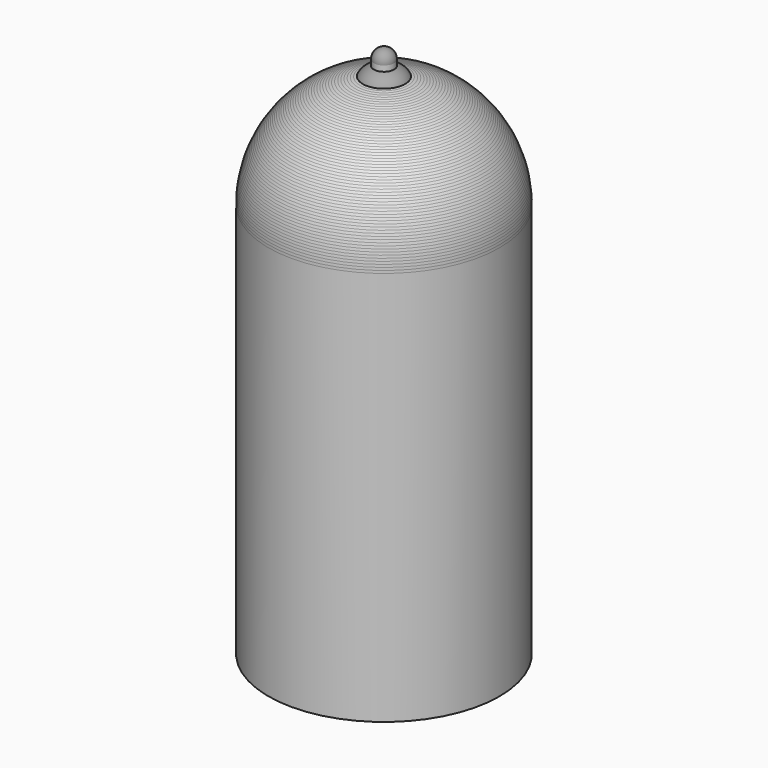
from build123d import *


with BuildPart() as f1:
    # F0 (on Front) → F1 (revolve)
    with BuildSketch(Plane.XZ):
        Polygon((11.400165, 52.66552), (11.348489, 52.664831), (11.297501, 52.662936), (11.246514, 52.659663), (11.196215, 52.655184), (11.145917, 52.6495), (11.096308, 52.642437), (11.047043, 52.634341), (10.998122, 52.624867), (10.949547, 52.61436), (10.901315, 52.602647), (10.853773, 52.589727), (10.80692, 52.575603), (10.760066, 52.560444), (10.714247, 52.544252), (10.668427, 52.526854), (10.623641, 52.508423), (10.579199, 52.488958), (10.535446, 52.46846), (10.492038, 52.446756), (10.449319, 52.424191), (10.407289, 52.400592), (10.365603, 52.375959), (10.324951, 52.350466), (10.284643, 52.323938), (10.245025, 52.29655), (10.206095, 52.2683), (10.167854, 52.239017), (10.130647, 52.209044), (10.094129, 52.178039), (10.0583, 52.146171), (10.02316, 52.113443), (9.989054, 52.080026), (9.955292, 52.045747), (9.922908, 52.010607), (9.891213, 51.974778), (9.860207, 51.93826), (9.829891, 51.900708), (9.800607, 51.862812), (9.772357, 51.824055), (9.744797, 51.784436), (9.718269, 51.744129), (9.692776, 51.703304), (9.668316, 51.661963), (9.644889, 51.619761), (9.622151, 51.576869), (9.600447, 51.533633), (9.580121, 51.489708), (9.560484, 51.445267), (9.541881, 51.400308), (9.524655, 51.354661), (9.508463, 51.308496), (9.493305, 51.261988), (9.47918, 51.21479), (9.466088, 51.167248), (9.454375, 51.119188), (9.44404, 51.070785), (9.434738, 51.021865), (9.42647, 50.9726), (9.41958, 50.922818), (9.413723, 50.872692), (9.409244, 50.822393), (9.406144, 50.771406), (9.404077, 50.720246), (9.403388, 50.668914), (9.403388, 50.650483), (9.403388, 50.632224), (9.403388, 50.613793), (9.403388, 50.595362), (9.403388, 50.577103), (9.403388, 50.558671), (9.403388, 50.54024), (9.403388, 50.521981), (9.403388, 50.50355), (9.403388, 50.485119), (9.403388, 50.46686), (9.403388, 50.448428), (9.403388, 50.429997), (9.403388, 50.411738), (9.403388, 50.393307), (9.403388, 50.374876), (9.403388, 50.356444), (9.403388, 50.338013), (9.403388, 50.319754), (9.403388, 50.301323), (9.403388, 50.282892), (9.403388, 50.264633), (9.403388, 50.246201), (9.403388, 50.22777), (9.403388, 50.209339), (9.403388, 50.190907), (9.403388, 50.172648), (9.403388, 50.154217), (9.403388, 50.135786), (9.403388, 50.117527), (9.403388, 50.099096), (9.403388, 50.080664), (9.403388, 50.062233), (9.403388, 50.043802), (9.403388, 50.025543), (9.403388, 50.007112), (9.403388, 49.98868), (9.403388, 49.970421), (9.403388, 49.95199), (9.403388, 49.933559), (9.403388, 49.915128), (9.403388, 49.896696), (9.403388, 49.878437), (9.403388, 49.860006), (9.403388, 49.841575), (9.403388, 49.823316), (9.403388, 49.804885), (9.403388, 49.786453), (9.403388, 49.768022), (9.403388, 49.749591), (9.403388, 49.731332), (9.403388, 49.7129), (9.403388, 49.694469), (9.403388, 49.67621), (9.403388, 49.657779), (9.403388, 49.639348), (9.403388, 49.620916), (9.403388, 49.602485), (9.403388, 49.584226), (9.403388, 49.565795), (9.403388, 49.547364), (9.403388, 49.529105), (9.403388, 49.510673), (9.403388, 49.492242), (9.35619, 49.4745), (9.309337, 49.456413), (9.262483, 49.43781), (9.216319, 49.418862), (9.170499, 49.399569), (9.125024, 49.37976), (9.079893, 49.359606), (9.035107, 49.339108), (8.990665, 49.318265), (8.946568, 49.297077), (8.90316, 49.275546), (8.859752, 49.253497), (8.816688, 49.231276), (8.774313, 49.208538), (8.731939, 49.185629), (8.690253, 49.162202), (8.648912, 49.138431), (8.607915, 49.114487), (8.567263, 49.090027), (8.5273, 49.065395), (8.487681, 49.040418), (8.448063, 49.014924), (8.409478, 48.989258), (8.370893, 48.963075), (8.332652, 48.93672), (8.2951, 48.910021), (8.257893, 48.882977), (8.221031, 48.855588), (8.184513, 48.828028), (8.148684, 48.79995), (8.113199, 48.7717), (8.078404, 48.743106), (8.043953, 48.714167), (8.009847, 48.685056), (7.976085, 48.655601), (7.943012, 48.625801), (7.910628, 48.595828), (7.878244, 48.565511), (7.846549, 48.53485), (7.815199, 48.504016), (7.784537, 48.472666), (7.75422, 48.441316), (7.724593, 48.409621), (7.694965, 48.377754), (7.666026, 48.345542), (7.637776, 48.312986), (7.610215, 48.280085), (7.582655, 48.247185), (7.555783, 48.213939), (7.5296, 48.18035), (7.504107, 48.146588), (7.478957, 48.112654), (7.454153, 48.078203), (7.430037, 48.043752), (7.406266, 48.008956), (7.383184, 47.974161), (7.360791, 47.939021), (7.338742, 47.903709), (7.317382, 47.868052), (7.296367, 47.832223), (7.276041, 47.796222), (7.25606, 47.759876), (7.236767, 47.723358), (7.218164, 47.686668), (6.714491, 47.587449), (6.214952, 47.47755), (5.720236, 47.356972), (5.229999, 47.226058), (4.744585, 47.084982), (4.263994, 46.93357), (3.788227, 46.771995), (3.317971, 46.600773), (2.852883, 46.419561), (2.393307, 46.228703), (1.938899, 46.028371), (1.490348, 45.818737), (1.047309, 45.599801), (0.610126, 45.371736), (0.1788, 45.134713), (-0.246325, 44.888906), (-0.665248, 44.634313), (-1.078315, 44.371108), (-1.484837, 44.099462), (-1.884812, 43.819548), (-2.278242, 43.531538), (-2.665126, 43.23526), (-3.044776, 42.931058), (-3.41788, 42.619277), (-3.783749, 42.299744), (-4.142728, 41.972632), (-4.494472, 41.638286), (-4.838982, 41.296532), (-5.175567, 40.947544), (-5.504919, 40.591838), (-5.826346, 40.229069), (-6.140194, 39.859583), (-6.446119, 39.483551), (-6.743775, 39.100973), (-7.033507, 38.712194), (-7.314972, 38.317041), (-7.588168, 37.91586), (-7.852751, 37.508822), (-8.108722, 37.0961), (-8.356424, 36.67752), (-8.595169, 36.253601), (-8.824613, 35.823998), (-9.045099, 35.389399), (-9.256628, 34.949461), (-9.458855, 34.504526), (-9.65178, 34.054769), (-9.835404, 33.600361), (-10.009381, 33.14113), (-10.173712, 32.677592), (-10.328052, 32.209576), (-10.472746, 31.737598), (-10.607105, 31.261314), (-10.731473, 30.781067), (-10.845506, 30.297031), (-10.949547, 29.809378), (-11.04291, 29.318107), (-11.125936, 28.823392), (-11.197939, 28.325575), (-11.259262, 27.824659), (-11.30956, 27.320469), (-11.349178, 26.813523), (-11.377428, 26.303821), (-11.394654, 25.791363), (-11.400166, 25.276494), (-11.400166, 24.05848), (-11.400166, 22.840639), (-11.400166, 21.622798), (-11.400166, 20.404956), (-11.400166, 19.187115), (-11.400166, 17.969274), (-11.400166, 16.751433), (-11.400166, 15.533591), (-11.400166, 14.31575), (-11.400166, 13.097909), (-11.400166, 11.880068), (-11.400166, 10.662226), (-11.400166, 9.444385), (-11.400166, 8.226544), (-11.400166, 7.008703), (-11.400166, 5.790861), (-11.400166, 4.57302), (-11.400166, 3.355179), (-11.400166, 2.137338), (-11.400166, 0.919496), (-11.400166, -0.298345), (-11.400166, -1.516186), (-11.400166, -2.734027), (-11.400166, -3.951869), (-11.400166, -5.16971), (-11.400166, -6.387551), (-11.400166, -7.605392), (-11.400166, -8.823234), (-11.400166, -10.041075), (-11.400166, -11.258916), (-11.400166, -12.476757), (-11.400166, -13.694599), (-11.400166, -14.91244), (-11.400166, -16.130281), (-11.400166, -17.348122), (-11.400166, -18.565964), (-11.400166, -19.783805), (-11.400166, -21.001646), (-11.400166, -22.219487), (-11.400166, -23.437329), (-11.400166, -24.65517), (-11.400166, -25.873011), (-11.400166, -27.090852), (-11.400166, -28.308694), (-11.400166, -29.526535), (-11.400166, -30.744376), (-11.400166, -31.962218), (-11.400166, -33.180059), (-11.400166, -34.3979), (-11.400166, -35.615741), (-11.400166, -36.833583), (-11.400166, -38.051424), (-11.400166, -39.269265), (-11.400166, -40.487106), (-11.400166, -41.704948), (-11.400166, -42.922789), (-11.400166, -44.14063), (-11.400166, -45.358471), (-11.400166, -46.576313), (-11.400166, -47.794154), (-11.400166, -49.011995), (-11.400166, -50.229836), (-11.400166, -51.447678), (-11.400166, -52.665519), (-11.155564, -52.665519), (-10.910962, -52.665519), (-10.666361, -52.665519), (-10.421759, -52.665519), (-10.177157, -52.665519), (-9.932555, -52.665519), (-9.687953, -52.665519), (-9.443696, -52.665519), (-9.199439, -52.665519), (-8.954837, -52.665519), (-8.710235, -52.665519), (-8.465634, -52.665519), (-8.221032, -52.665519), (-7.97643, -52.665519), (-7.731828, -52.665519), (-7.487226, -52.665519), (-7.242625, -52.665519), (-6.998023, -52.665519), (-6.753421, -52.665519), (-6.508819, -52.665519), (-6.264218, -52.665519), (-6.019616, -52.665519), (-5.775014, -52.665519), (-5.530757, -52.665519), (-5.286499, -52.665519), (-5.041898, -52.665519), (-4.797296, -52.665519), (-4.552694, -52.665519), (-4.308092, -52.665519), (-4.063491, -52.665519), (-3.818889, -52.665519), (-3.574287, -52.665519), (-3.329685, -52.665519), (-3.085083, -52.665519), (-2.840482, -52.665519), (-2.59588, -52.665519), (-2.351278, -52.665519), (-2.106676, -52.665519), (-1.862075, -52.665519), (-1.617817, -52.665519), (-1.37356, -52.665519), (-1.128958, -52.665519), (-0.884356, -52.665519), (-0.639755, -52.665519), (-0.395153, -52.665519), (-0.150551, -52.665519), (0.094051, -52.665519), (0.338652, -52.665519), (0.583254, -52.665519), (0.827856, -52.665519), (1.072458, -52.665519), (1.31706, -52.665519), (1.561661, -52.665519), (1.806263, -52.665519), (2.050865, -52.665519), (2.295467, -52.665519), (2.540068, -52.665519), (2.78467, -52.665519), (3.029272, -52.665519), (3.273874, -52.665519), (3.518476, -52.665519), (3.763077, -52.665519), (4.007679, -52.665519), (4.251936, -52.665519), (4.363902, -52.665519), (4.475523, -52.665519), (4.587144, -52.665519), (4.698765, -52.665519), (4.810386, -52.665519), (4.922007, -52.665519), (5.033629, -52.665519), (5.14525, -52.665519), (5.256871, -52.665519), (5.368492, -52.665519), (5.480113, -52.665519), (5.592079, -52.665519), (5.704044, -52.665519), (5.815665, -52.665519), (5.927286, -52.665519), (6.038907, -52.665519), (6.150529, -52.665519), (6.26215, -52.665519), (6.373771, -52.665519), (6.485736, -52.665519), (6.597702, -52.665519), (6.709323, -52.665519), (6.820944, -52.665519), (6.932565, -52.665519), (7.044186, -52.665519), (7.155807, -52.665519), (7.267428, -52.665519), (7.379394, -52.665519), (7.49136, -52.665519), (7.602981, -52.665519), (7.714602, -52.665519), (7.826223, -52.665519), (7.937844, -52.665519), (8.049465, -52.665519), (8.161086, -52.665519), (8.273052, -52.665519), (8.385017, -52.665519), (8.496639, -52.665519), (8.60826, -52.665519), (8.719881, -52.665519), (8.831502, -52.665519), (8.943123, -52.665519), (9.054744, -52.665519), (9.166365, -52.665519), (9.277986, -52.665519), (9.389607, -52.665519), (9.501228, -52.665519), (9.613194, -52.665519), (9.72516, -52.665519), (9.836781, -52.665519), (9.948402, -52.665519), (10.060023, -52.665519), (10.171644, -52.665519), (10.283265, -52.665519), (10.394886, -52.665519), (10.506507, -52.665519), (10.618128, -52.665519), (10.729749, -52.665519), (10.841371, -52.665519), (10.953336, -52.665519), (11.065302, -52.665519), (11.176923, -52.665519), (11.288544, -52.665519), (11.400165, -52.665519), (11.400165, -52.335134), (11.400165, -52.005094), (11.400165, -51.674709), (11.400165, -51.344325), (11.400165, -51.014285), (11.400165, -50.6839), (11.400165, -50.353515), (11.400165, -50.023475), (11.400165, -49.693435), (11.400165, -49.36305), (11.400165, -49.032666), (11.400165, -48.702625), (11.400165, -48.372585), (11.400165, -48.042201), (11.400165, -47.711816), (11.400165, -47.381776), (11.400165, -47.051736), (11.400165, -46.721351), (11.400165, -46.390966), (11.400165, -46.060926), (11.400165, -45.730542), (11.400165, -45.400157), (11.400165, -45.070117), (11.400165, -44.739732), (11.400165, -44.409347), (11.400165, -44.079307), (11.400165, -43.748923), (11.400165, -43.418538), (11.400165, -43.088498), (11.400165, -42.758113), (11.400165, -42.427729), (11.400165, -42.097688), (11.400165, -41.767648), (11.400165, -41.437264), (11.400165, -41.106879), (11.400165, -40.776839), (11.400165, -40.446799), (11.400165, -40.116414), (11.400165, -39.786029), (11.400165, -39.455989), (11.400165, -39.125949), (11.400165, -38.795564), (11.400165, -38.46518), (11.400165, -38.13514), (11.400165, -37.804755), (11.400165, -37.47437), (11.400165, -37.14433), (11.400165, -36.813945), (11.400165, -36.483561), (11.400165, -36.153521), (11.400165, -35.823136), (11.400165, -35.492751), (11.400165, -35.162711), (11.400165, -34.832327), (11.400165, -34.501942), (11.400165, -34.171902), (11.400165, -33.841862), (11.400165, -33.511477), (11.400165, -33.181092), (11.400165, -32.851052), (11.400165, -32.521012), (11.400165, -32.190627), (11.400165, -31.860243), (11.400165, -31.530203), (11.378116, -31.530547), (11.356068, -31.531236), (11.334019, -31.532614), (11.312315, -31.534681), (11.290611, -31.537437), (11.268907, -31.540193), (11.247892, -31.543638), (11.226532, -31.547773), (11.205862, -31.552596), (11.184847, -31.557419), (11.16452, -31.562931), (11.144194, -31.569132), (11.123868, -31.575678), (11.103887, -31.582568), (11.08425, -31.590147), (11.064957, -31.598071), (11.046009, -31.606339), (11.026717, -31.615296), (11.008113, -31.624598), (10.98951, -31.634244), (10.971595, -31.644235), (10.953681, -31.654915), (10.935766, -31.665939), (10.918541, -31.677308), (10.90166, -31.689366), (10.884779, -31.701424), (10.868242, -31.714171), (10.852395, -31.726917), (10.836547, -31.740353), (10.821044, -31.754134), (10.805886, -31.768259), (10.791072, -31.782728), (10.776603, -31.797542), (10.762822, -31.8127), (10.749042, -31.828203), (10.735606, -31.844051), (10.722859, -31.860243), (10.710112, -31.876435), (10.698055, -31.893316), (10.685997, -31.910541), (10.674628, -31.927767), (10.663604, -31.945337), (10.652924, -31.963251), (10.642933, -31.981166), (10.632942, -31.999425), (10.623641, -32.018373), (10.615028, -32.037321), (10.606415, -32.056613), (10.598491, -32.07625), (10.590912, -32.095887), (10.584022, -32.115869), (10.577132, -32.13585), (10.571275, -32.156176), (10.565763, -32.176502), (10.560595, -32.197518), (10.556117, -32.218533), (10.551983, -32.239548), (10.548537, -32.260907), (10.545437, -32.282267), (10.543025, -32.303626), (10.540958, -32.325331), (10.53958, -32.347379), (10.538891, -32.369428), (10.538547, -32.391821), (10.538547, -32.395611), (10.538547, -32.399745), (10.538547, -32.403879), (10.538547, -32.408013), (10.538547, -32.412147), (10.538547, -32.415937), (10.538547, -32.419726), (10.538547, -32.42386), (10.538547, -32.427994), (10.538547, -32.431784), (10.538547, -32.435574), (10.538547, -32.439708), (10.538547, -32.443842), (10.538547, -32.447631), (10.538547, -32.451421), (10.538547, -32.455555), (10.538547, -32.459689), (10.538547, -32.463479), (10.538547, -32.467269), (10.538547, -32.471403), (10.538547, -32.475537), (10.538547, -32.479671), (10.538547, -32.483805), (10.538547, -32.487595), (10.538547, -32.491384), (10.538547, -32.495518), (10.538547, -32.499652), (10.538547, -32.503787), (10.538547, -32.507921), (10.538547, -32.51171), (10.538547, -32.5155), (10.538547, -32.519634), (10.538547, -32.523768), (10.538547, -32.527558), (10.538547, -32.531347), (10.538547, -32.535481), (10.538547, -32.539616), (10.538547, -32.54375), (10.538547, -32.547884), (10.538547, -32.551673), (10.538547, -32.555463), (10.538547, -32.559597), (10.538547, -32.563731), (10.538547, -32.567865), (10.538547, -32.571999), (10.538547, -32.575789), (10.538547, -32.579579), (10.538547, -32.583713), (10.538547, -32.587847), (10.538547, -32.591636), (10.538547, -32.595426), (10.538547, -32.59956), (10.538547, -32.603694), (10.538547, -32.607484), (10.538547, -32.611273), (10.538547, -32.615408), (10.538547, -32.619542), (10.538547, -32.623331), (10.538547, -32.627121), (10.538547, -32.631255), (10.538547, -32.635389), (10.538547, -32.639523), (10.538547, -32.643657), (10.538547, -32.647447), (10.525455, -32.653304), (10.512364, -32.659849), (10.499273, -32.666395), (10.486181, -32.672596), (10.473434, -32.679142), (10.460687, -32.685688), (10.447941, -32.692233), (10.435194, -32.699123), (10.422447, -32.706014), (10.410045, -32.712904), (10.397642, -32.719794), (10.38524, -32.727029), (10.373182, -32.734263), (10.361124, -32.741498), (10.349066, -32.748733), (10.337009, -32.756312), (10.325295, -32.763891), (10.313582, -32.77147), (10.301869, -32.77905), (10.2905, -32.786629), (10.278786, -32.794553), (10.267762, -32.802476), (10.256393, -32.8104), (10.245369, -32.818668), (10.234345, -32.826936), (10.22332, -32.83486), (10.212296, -32.843473), (10.201616, -32.851741), (10.190937, -32.860009), (10.180257, -32.868622), (10.169577, -32.877235), (10.159586, -32.885848), (10.149595, -32.89446), (10.13926, -32.903418), (10.129269, -32.912375), (10.119279, -32.921332), (10.109632, -32.930289), (10.099641, -32.939247), (10.089995, -32.948548), (10.080693, -32.95785), (10.071047, -32.967152), (10.061745, -32.976454), (10.052444, -32.9861), (10.043486, -32.995746), (10.034529, -33.005048), (10.025572, -33.014694), (10.016959, -33.024685), (10.008346, -33.034331), (10.000078, -33.043977), (9.991465, -33.053968), (9.983197, -33.063959), (9.974929, -33.074294), (9.967005, -33.084285), (9.959082, -33.094276), (9.951158, -33.104611), (9.943579, -33.114946), (9.935999, -33.125282), (9.92842, -33.135617), (9.921186, -33.145952), (9.913951, -33.156632), (9.907061, -33.167312), (9.90017, -33.177992), (9.89328, -33.188671), (9.88639, -33.199351), (9.71758, -33.234836), (9.549804, -33.273765), (9.384095, -33.31614), (9.21942, -33.36196), (9.056811, -33.411225), (8.895925, -33.463935), (8.736417, -33.52009), (8.578632, -33.579345), (8.422914, -33.642046), (8.268573, -33.707847), (8.1163, -33.776749), (7.966094, -33.848752), (7.81761, -33.923855), (7.671194, -34.001714), (7.526844, -34.083018), (7.384562, -34.167079), (7.244002, -34.253895), (7.105854, -34.343812), (6.969772, -34.436485), (6.835758, -34.531914), (6.703811, -34.630099), (6.574275, -34.730696), (6.447151, -34.834049), (6.322439, -34.940158), (6.199793, -35.048679), (6.07956, -35.159611), (5.961737, -35.272954), (5.846671, -35.389054), (5.734016, -35.507221), (5.623773, -35.627799), (5.515942, -35.750789), (5.411211, -35.875846), (5.308892, -36.00297), (5.208984, -36.132506), (5.112177, -36.264108), (5.017781, -36.397778), (4.926142, -36.533515), (4.837947, -36.670974), (4.752164, -36.8105), (4.669482, -36.952094), (4.589556, -37.09541), (4.51273, -37.240448), (4.439005, -37.387209), (4.368381, -37.535693), (4.300512, -37.685899), (4.236089, -37.837828), (4.174766, -37.991135), (4.116544, -38.146164), (4.061423, -38.302571), (4.009746, -38.460357), (3.961515, -38.61952), (3.916729, -38.780406), (3.875043, -38.942325), (3.836802, -39.105278), (3.802351, -39.26961), (3.771001, -39.435319), (3.74344, -39.602061), (3.719325, -39.769837), (3.698999, -39.938647), (3.682118, -40.10849), (3.669026, -40.279367), (3.65938, -40.451277), (3.653523, -40.623877), (3.651801, -40.797509), (3.651801, -40.973554), (3.651801, -41.149598), (3.651801, -41.325643), (3.651801, -41.501687), (3.651801, -41.677731), (3.651801, -41.853776), (3.651801, -42.02982), (3.651801, -42.205864), (3.651801, -42.381909), (3.651801, -42.557953), (3.651801, -42.733998), (3.651801, -42.910042), (3.651801, -43.086086), (3.651801, -43.262131), (3.651801, -43.43852), (3.651801, -43.614564), (3.651801, -43.790608), (3.651801, -43.966997), (3.651801, -44.143042), (3.651801, -44.319086), (3.651801, -44.49513), (3.651801, -44.671175), (3.651801, -44.847219), (3.651801, -45.023264), (3.651801, -45.199308), (3.651801, -45.375352), (3.651801, -45.551397), (3.651801, -45.727441), (3.651801, -45.903485), (3.651801, -46.07953), (3.651801, -46.255574), (3.651801, -46.431619), (3.651801, -46.607663), (3.651801, -46.783707), (3.651801, -46.959752), (3.651801, -47.135796), (3.651801, -47.31184), (3.651801, -47.487885), (3.651801, -47.663929), (3.651801, -47.839974), (3.651801, -48.016018), (3.651801, -48.192062), (3.651801, -48.368107), (3.651801, -48.544151), (3.651801, -48.720195), (3.651801, -48.89624), (3.651801, -49.072284), (3.651801, -49.248329), (3.651801, -49.424373), (3.651801, -49.600417), (3.651801, -49.776462), (3.651801, -49.952506), (3.651801, -50.128551), (3.651801, -50.304595), (3.651801, -50.480639), (3.651801, -50.656684), (3.651801, -50.832728), (3.651801, -51.008772), (3.651801, -51.184817), (3.651801, -51.360861), (3.651801, -51.536906), (3.651801, -51.71295), (3.651801, -51.889339), (3.651801, -52.065383), (3.426147, -52.065383), (3.200149, -52.065383), (2.974495, -52.065383), (2.748841, -52.065383), (2.522843, -52.065383), (2.297189, -52.065383), (2.071535, -52.065383), (1.845537, -52.065383), (1.619539, -52.065383), (1.393885, -52.065383), (1.168231, -52.065383), (0.942233, -52.065383), (0.716235, -52.065383), (0.490581, -52.065383), (0.264927, -52.065383), (0.038929, -52.065383), (-0.187069, -52.065383), (-0.412723, -52.065383), (-0.638377, -52.065383), (-0.864375, -52.065383), (-1.090373, -52.065383), (-1.316027, -52.065383), (-1.541681, -52.065383), (-1.767679, -52.065383), (-1.993677, -52.065383), (-2.219331, -52.065383), (-2.444985, -52.065383), (-2.670983, -52.065383), (-2.896981, -52.065383), (-3.122635, -52.065383), (-3.348289, -52.065383), (-3.574287, -52.065383), (-3.800285, -52.065383), (-4.025939, -52.065383), (-4.251593, -52.065383), (-4.477591, -52.065383), (-4.703589, -52.065383), (-4.929243, -52.065383), (-5.154897, -52.065383), (-5.380895, -52.065383), (-5.606893, -52.065383), (-5.832547, -52.065383), (-6.058201, -52.065383), (-6.284199, -52.065383), (-6.509853, -52.065383), (-6.735507, -52.065383), (-6.961505, -52.065383), (-7.187159, -52.065383), (-7.412812, -52.065383), (-7.638811, -52.065383), (-7.864464, -52.065383), (-8.090118, -52.065383), (-8.316116, -52.065383), (-8.54177, -52.065383), (-8.767424, -52.065383), (-8.993422, -52.065383), (-9.21942, -52.065383), (-9.445074, -52.065383), (-9.670728, -52.065383), (-9.896726, -52.065383), (-10.122725, -52.065383), (-10.348378, -52.065383), (-10.574032, -52.065383), (-10.80003, -52.065383), (-10.80003, -50.857188), (-10.80003, -49.648649), (-10.80003, -48.440109), (-10.80003, -47.23157), (-10.80003, -46.02303), (-10.80003, -44.814491), (-10.80003, -43.605951), (-10.80003, -42.397412), (-10.80003, -41.188872), (-10.80003, -39.980333), (-10.80003, -38.771793), (-10.80003, -37.563598), (-10.80003, -36.355403), (-10.80003, -35.146864), (-10.80003, -33.938324), (-10.80003, -32.729785), (-10.80003, -31.521245), (-10.80003, -30.312706), (-10.80003, -29.104166), (-10.80003, -27.895971), (-10.80003, -26.687432), (-10.80003, -25.479237), (-10.80003, -24.270697), (-10.80003, -23.062158), (-10.80003, -21.853618), (-10.80003, -20.645079), (-10.80003, -19.436884), (-10.80003, -18.228344), (-10.80003, -17.019805), (-10.80003, -15.81161), (-10.80003, -14.60307), (-10.80003, -13.394531), (-10.80003, -12.185991), (-10.80003, -10.977452), (-10.80003, -9.769257), (-10.80003, -8.560717), (-10.80003, -7.352178), (-10.80003, -6.143638), (-10.80003, -4.935099), (-10.80003, -3.726904), (-10.80003, -2.518364), (-10.80003, -1.309825), (-10.80003, -0.101285), (-10.80003, 1.107254), (-10.80003, 2.315794), (-10.80003, 3.524161), (-10.80003, 4.732528), (-10.80003, 5.941068), (-10.80003, 7.149607), (-10.80003, 8.357974), (-10.80003, 9.566342), (-10.80003, 10.774881), (-10.80003, 11.983421), (-10.80003, 13.191788), (-10.80003, 14.400155), (-10.80003, 15.608694), (-10.80003, 16.817234), (-10.80003, 18.025601), (-10.80003, 19.233968), (-10.80003, 20.442508), (-10.80003, 21.651047), (-10.80003, 22.859587), (-10.80003, 24.068126), (-10.80003, 25.276494), (-10.799341, 25.458395), (-10.79693, 25.640124), (-10.793485, 25.821508), (-10.788317, 26.002548), (-10.781427, 26.183243), (-10.773848, 26.363594), (-10.764546, 26.5436), (-10.753521, 26.723262), (-10.741119, 26.902579), (-10.727339, 27.081551), (-10.71218, 27.26018), (-10.695644, 27.438463), (-10.677729, 27.61623), (-10.658092, 27.793825), (-10.637422, 27.970903), (-10.615373, 28.147636), (-10.591947, 28.324025), (-10.566797, 28.499897), (-10.540615, 28.675425), (-10.512709, 28.850436), (-10.483771, 29.02493), (-10.453109, 29.199079), (-10.421414, 29.372884), (-10.388341, 29.546173), (-10.35389, 29.719117), (-10.318061, 29.891544), (-10.280854, 30.063454), (-10.242614, 30.234847), (-10.202651, 30.405896), (-10.161654, 30.576429), (-10.119279, 30.746444), (-10.075527, 30.915943), (-10.03074, 31.084925), (-9.984232, 31.253562), (-9.936689, 31.421511), (-9.887769, 31.589114), (-9.837471, 31.756029), (-9.786139, 31.9226), (-9.733429, 32.088481), (-9.679341, 32.253846), (-9.624219, 32.418693), (-9.56772, 32.582852), (-9.509842, 32.746666), (-9.450931, 32.909792), (-9.390297, 33.0724), (-9.328975, 33.234492), (-9.266274, 33.395895), (-9.20254, 33.556608), (-9.137427, 33.716805), (-9.071281, 33.876486), (-9.003757, 34.035477), (-8.934856, 34.193951), (-8.86492, 34.351736), (-8.793607, 34.509005), (-8.72126, 34.665585), (-8.647879, 34.821475), (-8.573121, 34.976849), (-8.497328, 35.131362), (-8.420158, 35.285357), (-8.342299, 35.438664), (-8.263062, 35.591282), (-8.182791, 35.743211), (-8.101142, 35.894622), (-8.01846, 36.045173), (-7.808998, 36.3337), (-7.595747, 36.618782), (-7.37905, 36.90059), (-7.15822, 37.179126), (-6.933944, 37.454389), (-6.705879, 37.726035), (-6.474368, 37.994408), (-6.239068, 38.259336), (-6.000323, 38.520647), (-5.758133, 38.778512), (-5.512153, 39.032588), (-5.263073, 39.283046), (-5.010892, 39.529715), (-4.755266, 39.772939), (-4.496195, 40.012201), (-4.233678, 40.247673), (-3.968406, 40.479183), (-3.699688, 40.706732), (-3.42787, 40.930491), (-3.152952, 41.150288), (-2.874933, 41.365951), (-2.594157, 41.577652), (-2.310281, 41.785219), (-2.023305, 41.98848), (-1.733572, 42.187606), (-1.441084, 42.382426), (-1.145495, 42.57294), (-0.847149, 42.75932), (-0.546393, 42.941221), (-0.242535, 43.118815), (0.063734, 43.291932), (0.372414, 43.460397), (0.683851, 43.624383), (0.997699, 43.783891), (1.314303, 43.938748), (1.633319, 44.088954), (1.954747, 44.234337), (2.278241, 44.375242), (2.604492, 44.511151), (2.932809, 44.642409), (3.263539, 44.768844), (3.596335, 44.890111), (3.931543, 45.006556), (4.268817, 45.118004), (4.607815, 45.224458), (4.949224, 45.325916), (5.2927, 45.422206), (5.637898, 45.513157), (5.985164, 45.59894), (6.334497, 45.679727), (6.685207, 45.755003), (7.03833, 45.82511), (7.393174, 45.889878), (7.749397, 45.948961), (8.107687, 46.003049), (8.467355, 46.051281), (8.828401, 46.094), (9.191514, 46.131207), (9.556005, 46.162902), (9.921875, 46.18874), (10.289122, 46.209066), (10.658091, 46.223536), (11.028784, 46.232321), (11.400165, 46.235249), (11.400165, 46.335673), (11.400165, 46.436098), (11.400165, 46.536695), (11.400165, 46.637119), (11.400165, 46.737544), (11.400165, 46.838141), (11.400165, 46.938565), (11.400165, 47.03899), (11.400165, 47.139414), (11.400165, 47.239839), (11.400165, 47.340435), (11.400165, 47.44086), (11.400165, 47.541285), (11.400165, 47.641881), (11.400165, 47.742306), (11.400165, 47.84273), (11.400165, 47.943155), (11.400165, 48.043579), (11.400165, 48.144176), (11.400165, 48.244601), (11.400165, 48.345025), (11.400165, 48.445622), (11.400165, 48.546047), (11.400165, 48.646471), (11.400165, 48.747068), (11.400165, 48.847492), (11.400165, 48.947917), (11.400165, 49.048514), (11.400165, 49.148938), (11.400165, 49.249363), (11.400165, 49.34996), (11.400165, 49.450384), (11.400165, 49.550809), (11.400165, 49.651406), (11.400165, 49.75183), (11.400165, 49.852255), (11.400165, 49.952851), (11.400165, 50.053276), (11.400165, 50.1537), (11.400165, 50.254297), (11.400165, 50.354722), (11.400165, 50.455146), (11.400165, 50.555743), (11.400165, 50.656168), (11.400165, 50.756592), (11.400165, 50.857189), (11.400165, 50.957613), (11.400165, 51.058038), (11.400165, 51.158463), (11.400165, 51.258887), (11.400165, 51.359484), (11.400165, 51.459908), (11.400165, 51.560333), (11.400165, 51.66093), (11.400165, 51.761354), (11.400165, 51.861779), (11.400165, 51.962203), (11.400165, 52.062628), (11.400165, 52.163225), (11.400165, 52.263649), (11.400165, 52.364074), (11.400165, 52.46467), (11.400165, 52.565095), align=None)
    revolve(axis=Axis((11.400165, 0, 48.897705), (0, 0, 1)))


solid = f1.part
